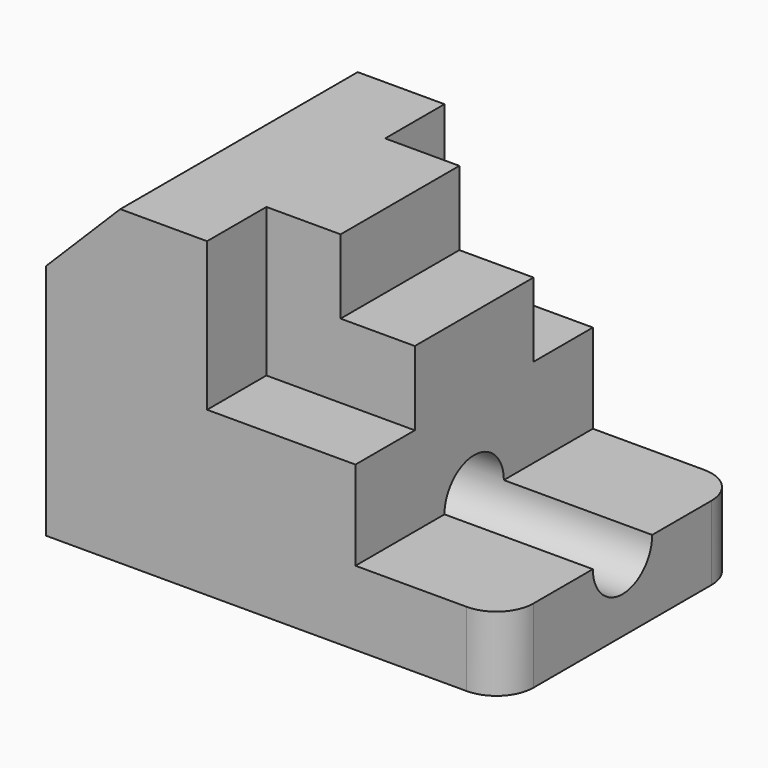
from build123d import *

# Parameters (mm, degrees)
F0_W      = 78.3574953675
F0_H      = 53.3467046916
F1_DEPTH  = 50.8
F3_DEPTH  = 50.801
F4_W      = 25.4
F4_H      = 40.6467046916
F5_DEPTH  = 50.801
F6_W      = 12.7
F6_H      = 12.7
F7_DEPTH  = 50.801
F9_DEPTH  = 12.7
F11_DEPTH = 12.7
F13_DEPTH = 78.3584953675
F14_R     = 6.35


with BuildPart() as f1:
    # F0 (on Front) → F1 (new body)
    with BuildSketch(Plane.XZ):
        with Locations((39.1787476838, 26.6733523458)):
            Rectangle(F0_W, F0_H)
    extrude(amount=-F1_DEPTH)

    # F2 (on face) → F3 (cut, through all)
    with BuildSketch(Plane.XZ):
        Polygon((0, 53.3467046916), (0, 40.6467046916), (12.7, 53.3467046916), align=None)
    extrude(amount=-F3_DEPTH, mode=Mode.SUBTRACT)

    # F4 (on face) → F5 (cut, through all)
    with BuildSketch(Plane.XZ):
        with Locations((65.6574953675, 33.0233523458)):
            Rectangle(F4_W, F4_H)
    extrude(amount=-F5_DEPTH, mode=Mode.SUBTRACT)

    # F6 (on face) → F7 (cut, through all)
    with BuildSketch(Plane.XZ):
        with Locations((46.6074953675, 46.9967046916)):
            Rectangle(F6_W, F6_H)
    extrude(amount=-F7_DEPTH, mode=Mode.SUBTRACT)

    # F8 (on face) → F9 (cut)
    with BuildSketch(Plane.XZ):
        Polygon((27.5574953675, 27.9467046916), (52.9574953675, 27.9467046916), (52.9574953675, 40.6467046916), (40.2574953675, 40.6467046916), (40.2574953675, 53.3467046916), (27.5574953675, 53.3467046916), align=None)
    extrude(amount=-F9_DEPTH, mode=Mode.SUBTRACT)

    # F10 (on face) → F11 (cut)
    with BuildSketch(Plane(origin=(0, 50.8, 0), x_dir=(-1, 0, 0), z_dir=(0, 1, 0))):
        Polygon((-52.9574953675, 40.6467046916), (-52.9574953675, 27.9467046916), (-27.5574953675, 27.9467046916), (-27.5574953675, 53.3467046916), (-40.2574953675, 53.3467046916), (-40.2574953675, 40.6467046916), align=None)
    extrude(amount=-F11_DEPTH, mode=Mode.SUBTRACT)

    # F12 (on face) → F13 (cut, through all)
    with BuildSketch(Plane.YZ.offset(78.3574953675)):
        with BuildLine():
            ThreePointArc((19.05, 12.7), (25.4, 6.35), (31.75, 12.7))
            Line((31.75, 12.7), (19.05, 12.7))
        make_face()
        with BuildLine():
            Line((19.05, 12.7), (31.75, 12.7))
            ThreePointArc((31.75, 12.7), (25.4, 19.05), (19.05, 12.7))
        make_face()
    extrude(amount=-F13_DEPTH, mode=Mode.SUBTRACT)

    # F14
    f14_edges = [f1.edges().sort_by_distance(p)[0] for p in [
        (78.357495, 50.8, 6.35),
        (78.357495, 0, 6.35),
    ]]
    fillet(f14_edges, radius=F14_R)


solid = f1.part
